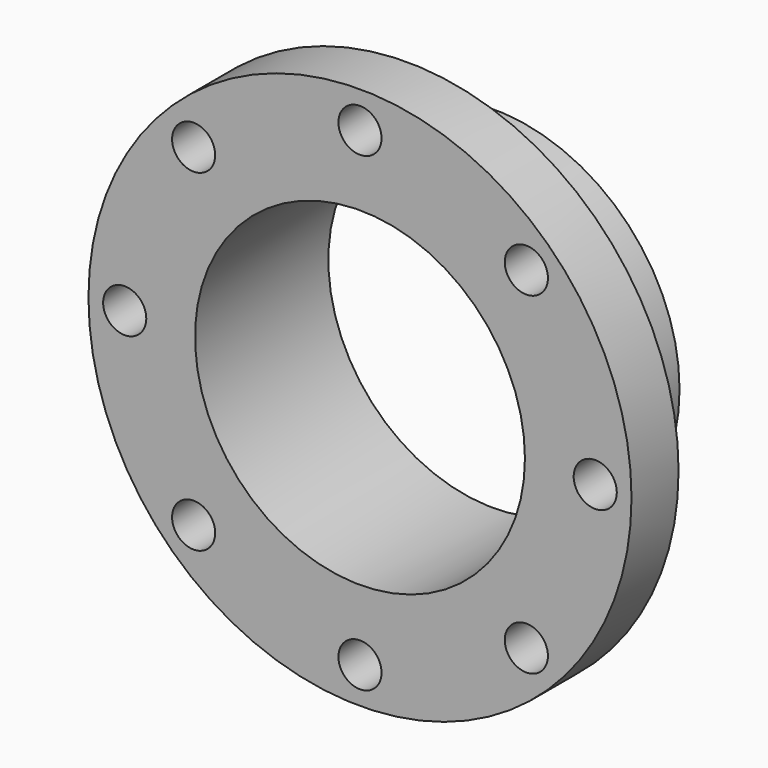
from build123d import *

# Parameters (mm, degrees)
SKETCH003_R   = 138.5
SKETCH003_R_2 = 11
PAD002_DEPTH  = 30
SKETCH004_R   = 95
PAD003_DEPTH  = 55
SKETCH005_R   = 84.1375
POCKET_DEPTH  = 85.001


with BuildPart() as part:
    # Sketch003 → Pad002 (new body)
    with BuildSketch(Plane.XZ.offset(-3)):
        Circle(SKETCH003_R)
        with Locations((-120, 0)):
            Circle(SKETCH003_R_2, mode=Mode.SUBTRACT)
        with Locations((-84.852814, 84.852814)):
            Circle(SKETCH003_R_2, mode=Mode.SUBTRACT)
        with Locations((0, 120)):
            Circle(SKETCH003_R_2, mode=Mode.SUBTRACT)
        with Locations((84.852814, 84.852814)):
            Circle(SKETCH003_R_2, mode=Mode.SUBTRACT)
        with Locations((120, 0)):
            Circle(SKETCH003_R_2, mode=Mode.SUBTRACT)
        with Locations((84.852814, -84.852814)):
            Circle(SKETCH003_R_2, mode=Mode.SUBTRACT)
        with Locations((0, -120)):
            Circle(SKETCH003_R_2, mode=Mode.SUBTRACT)
        with Locations((-84.852814, -84.852814)):
            Circle(SKETCH003_R_2, mode=Mode.SUBTRACT)
    extrude(amount=-PAD002_DEPTH)

    # Sketch004 (on Face11 of Pad002) → Pad003 (join)
    with BuildSketch(Plane(origin=(0, 33, 0), x_dir=(1, 0, 0), z_dir=(0, 1, 0))):
        Circle(SKETCH004_R)
    extrude(amount=PAD003_DEPTH)

    # Sketch005 (on Face13 of Pad003) → Pocket (cut, through all)
    with BuildSketch(Plane(origin=(0, 88, 0), x_dir=(1, 0, 0), z_dir=(0, 1, 0))):
        Circle(SKETCH005_R)
    extrude(amount=-POCKET_DEPTH, mode=Mode.SUBTRACT)


solid = part.part
